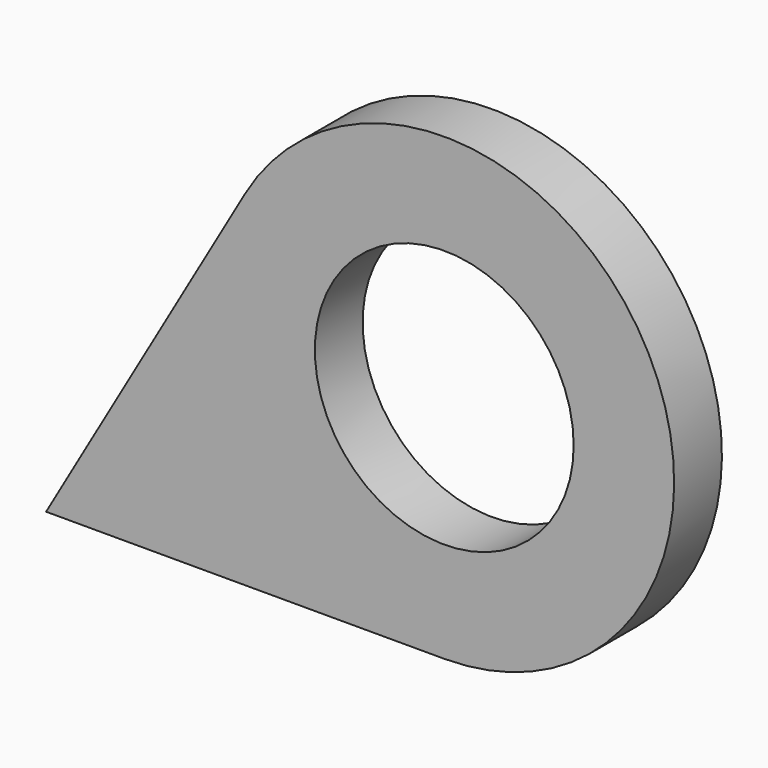
from build123d import *

# Parameters (mm, degrees)
F0_R     = 6.5
F1_DEPTH = 3


with BuildPart() as f1:
    # F0 (on Front) → F1 (new body)
    with BuildSketch(Plane.XZ):
        with BuildLine():
            Line((10, 17.320508), (0, 0))
            Line((0, 0), (20, 0))
            ThreePointArc((20, 0), (30, 17.320508), (10, 17.320508))
        make_face()
        with Locations((20, 11.547005)):
            Circle(F0_R, mode=Mode.SUBTRACT)
    extrude(amount=F1_DEPTH)


solid = f1.part
